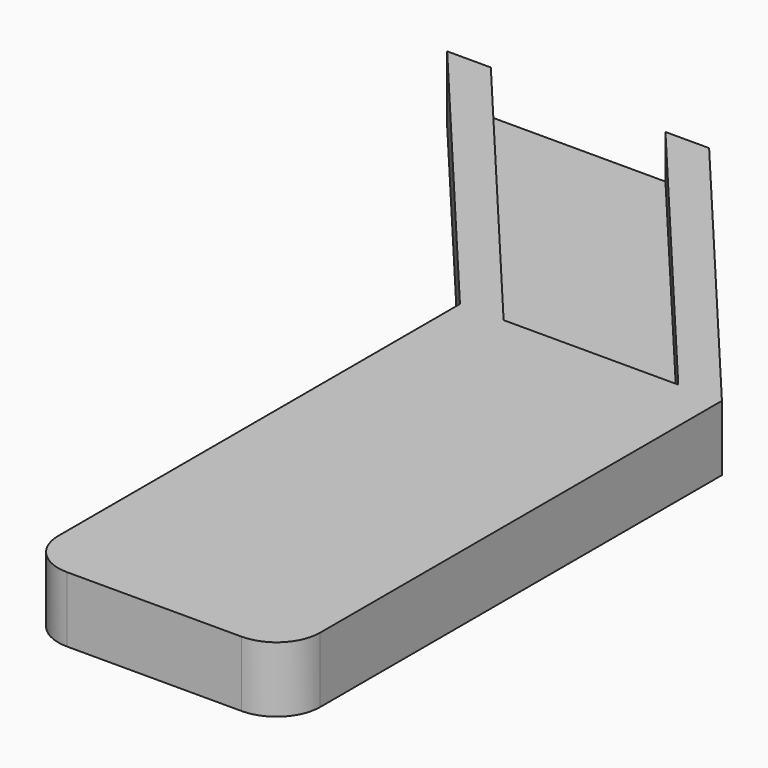
from build123d import *

# Parameters (mm, degrees)
F1_DEPTH = 6
F3_DEPTH = 4


with BuildPart() as f1:
    # F0 (on Top) → F1 (new body)
    with BuildSketch(Plane.XY):
        with BuildLine():
            ThreePointArc((45.172989, -80), (48.001416, -78.828427), (49.172989, -76))
            Line((49.172989, -76), (49.172989, -30))
            Line((49.172989, -30), (24, 0))
            Line((24, 0), (0, 0))
            Line((0, 0), (25.172989, -30))
            Line((25.172989, -30), (25.172989, -76))
            ThreePointArc((25.172989, -76), (26.344562, -78.828427), (29.172989, -80))
            Line((29.172989, -80), (45.172989, -80))
        make_face()
    extrude(amount=F1_DEPTH)

    # F2 (on face) → F3 (cut)
    with BuildSketch(Plane.XY.offset(6)):
        Polygon((4, 0), (29.172989, -30), (45.172989, -30), (20, 0), align=None)
    extrude(amount=-F3_DEPTH, mode=Mode.SUBTRACT)


solid = f1.part
